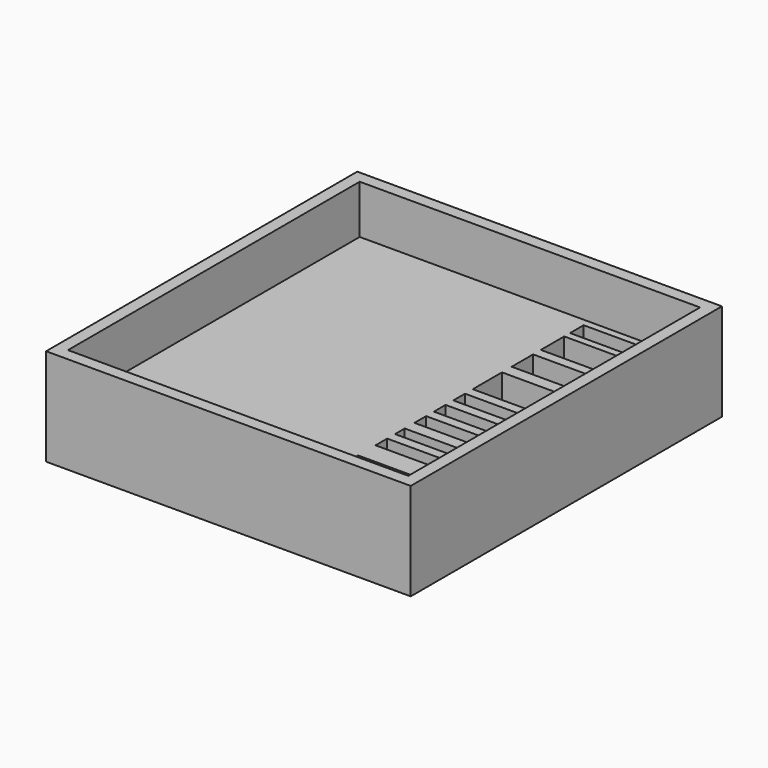
from build123d import *

# Parameters (mm, degrees)
F0_W     = 150
F0_H     = 160
F1_DEPTH = 10
F2_W     = 150
F2_H     = 160
F2_W_2   = 140
F2_H_2   = 150
F3_DEPTH = 30
F4_W     = 140
F4_H     = 150
F4_W_2   = 40.476516
F4_H_2   = 6
F4_H_3   = 5
F4_H_4   = 15
F4_H_5   = 11
F4_H_6   = 12
F4_H_7   = 7
F5_DEPTH = 10


with BuildPart() as f1:
    # F0 (on Top) → F1 (new body)
    with BuildSketch(Plane.XY):
        Rectangle(F0_W, F0_H)
    extrude(amount=F1_DEPTH)

    # F2 (on face) → F3 (join)
    with BuildSketch(Plane.XY.offset(10)):
        Rectangle(F2_W, F2_H)
        Rectangle(F2_W_2, F2_H_2, mode=Mode.SUBTRACT)
    extrude(amount=F3_DEPTH)

    # F4 (on face) → F5 (join)
    with BuildSketch(Plane.XY.offset(10)):
        Rectangle(F4_W, F4_H)
        with Locations((44.761742, -67)):
            Rectangle(F4_W_2, F4_H_2, mode=Mode.SUBTRACT)
        with Locations((44.761742, -58.5)):
            Rectangle(F4_W_2, F4_H_3, mode=Mode.SUBTRACT)
        with Locations((44.761742, -47)):
            Rectangle(F4_W_2, F4_H_2, mode=Mode.SUBTRACT)
        with Locations((44.761742, -32)):
            Rectangle(F4_W_2, F4_H_2, mode=Mode.SUBTRACT)
        with Locations((44.761742, -22.5)):
            Rectangle(F4_W_2, F4_H_3, mode=Mode.SUBTRACT)
        with Locations((44.761742, -12)):
            Rectangle(F4_W_2, F4_H_2, mode=Mode.SUBTRACT)
        with Locations((44.761742, -2)):
            Rectangle(F4_W_2, F4_H_2, mode=Mode.SUBTRACT)
        with Locations((44.761742, 8)):
            Rectangle(F4_W_2, F4_H_2, mode=Mode.SUBTRACT)
        with Locations((44.761742, 22.5)):
            Rectangle(F4_W_2, F4_H_4, mode=Mode.SUBTRACT)
        with Locations((44.761742, 40.5)):
            Rectangle(F4_W_2, F4_H_5, mode=Mode.SUBTRACT)
        with Locations((44.761742, 56)):
            Rectangle(F4_W_2, F4_H_6, mode=Mode.SUBTRACT)
        with Locations((44.761742, 68.5)):
            Rectangle(F4_W_2, F4_H_7, mode=Mode.SUBTRACT)
    extrude(amount=F5_DEPTH)


solid = f1.part
